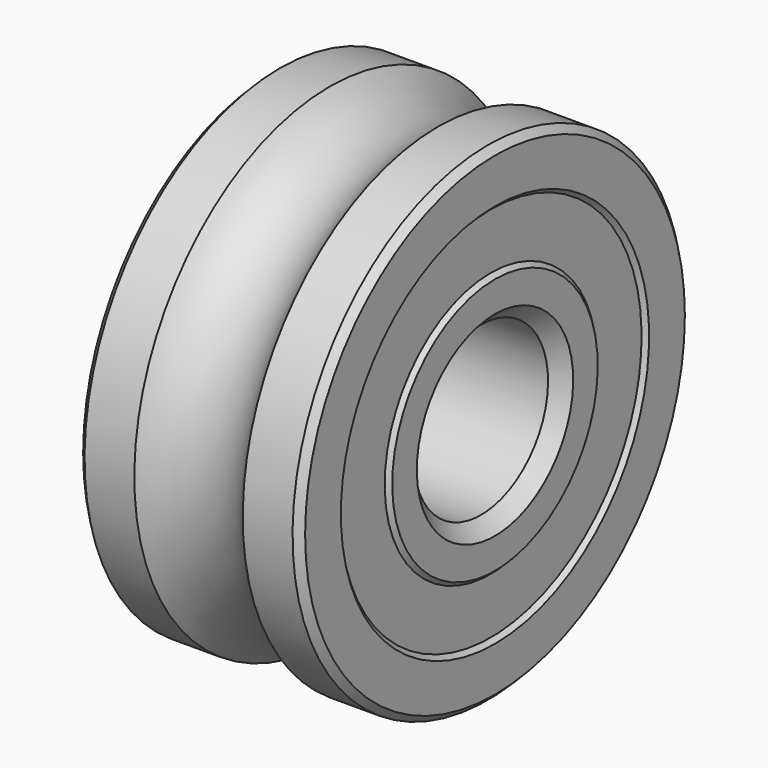
from build123d import *

# Parameters (mm, degrees)
F2_SIZE = 0.5
F3_SIZE = 1


with BuildPart() as f1:
    # F0 (on Front) → F1 (revolve)
    with BuildSketch(Plane.XZ):
        with BuildLine():
            Line((0, 9.2), (0, 6))
            Line((0, 6), (15.9, 6))
            Line((15.9, 6), (15.9, 9.2))
            Line((15.9, 9.2), (15.6, 9.5))
            Line((15.6, 9.5), (15.6, 13.5))
            Line((15.6, 13.5), (15.9, 13.8))
            Line((15.9, 13.8), (15.9, 17.5))
            Line((15.9, 17.5), (11.832976, 17.5))
            ThreePointArc((11.832976, 17.5), (7.95, 15.65), (4.067024, 17.5))
            Line((4.067024, 17.5), (0, 17.5))
            Line((0, 17.5), (0, 13.8))
            Line((0, 13.8), (0.3, 13.5))
            Line((0.3, 13.5), (0.3, 9.5))
            Line((0.3, 9.5), (0, 9.2))
        make_face()
    revolve(axis=Axis((29.48505, 0, 0), (1, 0, 0)))

    # F2
    f2_edges = [f1.edges().sort_by_distance(p)[0] for p in [
        (0, 0, -17.5),
        (15.9, 0, -17.5),
    ]]
    chamfer(f2_edges, length=F2_SIZE)

    # F3
    f3_edges = [f1.edges().sort_by_distance(p)[0] for p in [
        (15.9, 0, -6),
        (0, 0, -6),
    ]]
    chamfer(f3_edges, length=F3_SIZE)


solid = f1.part
